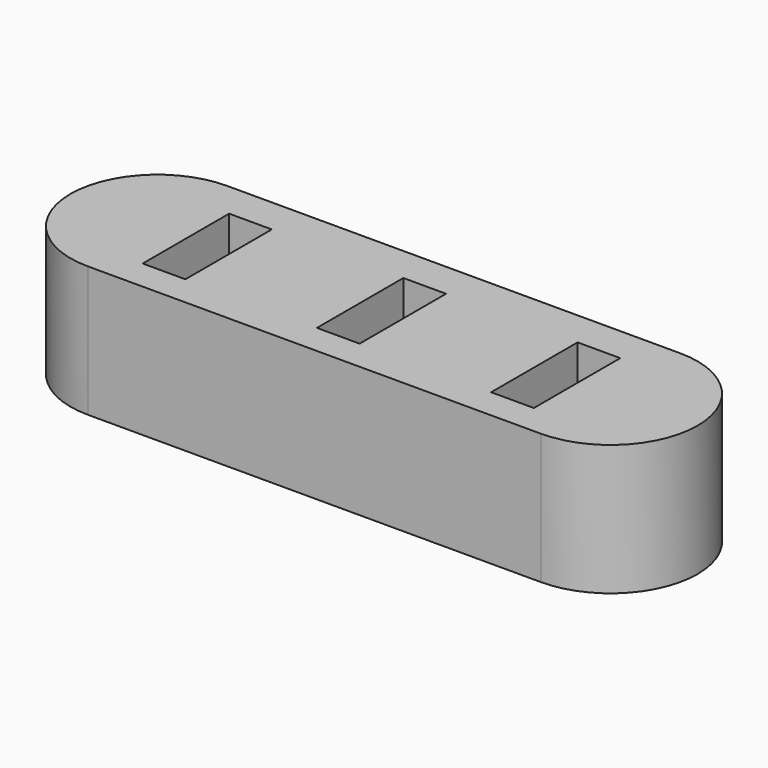
from build123d import *

# Parameters (mm, degrees)
BOX003_W          = 4.9
BOX003_H          = 12.4
BOX003_DEPTH      = 20
BOX002_W          = 4.9
BOX002_H          = 12.4
BOX002_DEPTH      = 20
BOX001_W          = 4.9
BOX001_H          = 12.4
BOX001_DEPTH      = 20
CYLINDER_R        = 10
CYLINDER_DEPTH    = 15
CYLINDER001_R     = 10
CYLINDER001_DEPTH = 15
BOX_W             = 52
BOX_H             = 20
BOX_DEPTH         = 15


with BuildPart() as slot003:
    # Box003 → Box003 (new body)
    with BuildSketch(Plane(origin=(43.5, 3.5, 4), x_dir=(1, 0, 0), z_dir=(0, 0, 1))):
        with Locations((2.45, 6.2)):
            Rectangle(BOX003_W, BOX003_H)
    extrude(amount=BOX003_DEPTH)


with BuildPart() as slot002:
    # Box002 → Box002 (new body)
    with BuildSketch(Plane(origin=(23.5, 3.5, 4), x_dir=(1, 0, 0), z_dir=(0, 0, 1))):
        with Locations((2.45, 6.2)):
            Rectangle(BOX002_W, BOX002_H)
    extrude(amount=BOX002_DEPTH)


with BuildPart() as slots:
    # Box001 → Box001 (new body)
    with BuildSketch(Plane(origin=(3.5, 3.5, 4), x_dir=(1, 0, 0), z_dir=(0, 0, 1))):
        with Locations((2.45, 6.2)):
            Rectangle(BOX001_W, BOX001_H)
    extrude(amount=BOX001_DEPTH)

    # Fusion: union slot003, slot002
    add(slot003.part)
    add(slot002.part)


with BuildPart() as cilindro:
    # Cylinder → Cylinder (new body)
    with BuildSketch(Plane(origin=(0, 10, 0), x_dir=(1, 0, 0), z_dir=(0, 0, 1))):
        Circle(CYLINDER_R)
    extrude(amount=CYLINDER_DEPTH)


with BuildPart() as cilindro001:
    # Cylinder001 → Cylinder001 (new body)
    with BuildSketch(Plane(origin=(52, 10, 0), x_dir=(1, 0, 0), z_dir=(0, 0, 1))):
        Circle(CYLINDER001_R)
    extrude(amount=CYLINDER001_DEPTH)


with BuildPart() as cut:
    # Box → Box (new body)
    with BuildSketch(Plane.XY):
        with Locations((26, 10)):
            Rectangle(BOX_W, BOX_H)
    extrude(amount=BOX_DEPTH)

    # Fusion001: union Cilindro, Cilindro001
    add(cilindro.part)
    add(cilindro001.part)

    # Cut: cut slots
    add(slots.part, mode=Mode.SUBTRACT)


solid = cut.part
